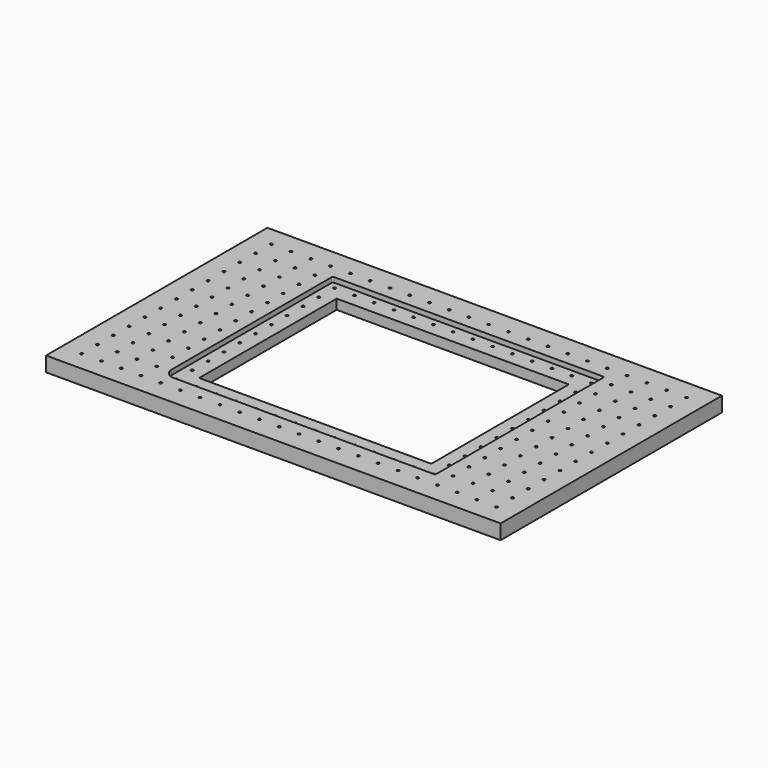
from build123d import *

# Parameters (mm, degrees)
F0_W     = 584.2
F0_H     = 355.6
F0_R     = 1.5875
F1_DEPTH = 19.05
F3_DEPTH = 6.35
F4_W     = 298.45
F4_H     = 220.98
F5_DEPTH = 25.4


with BuildPart() as f1:
    # F0 (on Top) → F1 (new body)
    with BuildSketch(Plane.XY):
        Rectangle(F0_W, F0_H)
        with Locations((-266.7, -152.4)):
            Circle(F0_R, mode=Mode.SUBTRACT)
        with Locations((-241.3, -152.4)):
            Circle(F0_R, mode=Mode.SUBTRACT)
        with Locations((-215.9, -152.4)):
            Circle(F0_R, mode=Mode.SUBTRACT)
        with Locations((-190.5, -152.4)):
            Circle(F0_R, mode=Mode.SUBTRACT)
        with Locations((-165.1, -152.4)):
            Circle(F0_R, mode=Mode.SUBTRACT)
        with Locations((-266.7, -127)):
            Circle(F0_R, mode=Mode.SUBTRACT)
        with Locations((-241.3, -127)):
            Circle(F0_R, mode=Mode.SUBTRACT)
        with Locations((-266.7, -101.6)):
            Circle(F0_R, mode=Mode.SUBTRACT)
        with Locations((-241.3, -101.6)):
            Circle(F0_R, mode=Mode.SUBTRACT)
        with Locations((-215.9, -127)):
            Circle(F0_R, mode=Mode.SUBTRACT)
        with Locations((-190.5, -127)):
            Circle(F0_R, mode=Mode.SUBTRACT)
        with Locations((-165.1, -127)):
            Circle(F0_R, mode=Mode.SUBTRACT)
        with Locations((-215.9, -101.6)):
            Circle(F0_R, mode=Mode.SUBTRACT)
        with Locations((-190.5, -101.6)):
            Circle(F0_R, mode=Mode.SUBTRACT)
        with Locations((-165.1, -101.6)):
            Circle(F0_R, mode=Mode.SUBTRACT)
        with Locations((-139.7, -152.4)):
            Circle(F0_R, mode=Mode.SUBTRACT)
        with Locations((-114.3, -152.4)):
            Circle(F0_R, mode=Mode.SUBTRACT)
        with Locations((-88.9, -152.4)):
            Circle(F0_R, mode=Mode.SUBTRACT)
        with Locations((-63.5, -152.4)):
            Circle(F0_R, mode=Mode.SUBTRACT)
        with Locations((-38.1, -152.4)):
            Circle(F0_R, mode=Mode.SUBTRACT)
        with Locations((-12.7, -152.4)):
            Circle(F0_R, mode=Mode.SUBTRACT)
        with Locations((-139.7, -127)):
            Circle(F0_R, mode=Mode.SUBTRACT)
        with Locations((-114.3, -127)):
            Circle(F0_R, mode=Mode.SUBTRACT)
        with Locations((-88.9, -127)):
            Circle(F0_R, mode=Mode.SUBTRACT)
        with Locations((-139.7, -101.6)):
            Circle(F0_R, mode=Mode.SUBTRACT)
        with Locations((-114.3, -101.6)):
            Circle(F0_R, mode=Mode.SUBTRACT)
        with Locations((-88.9, -101.6)):
            Circle(F0_R, mode=Mode.SUBTRACT)
        with Locations((-63.5, -127)):
            Circle(F0_R, mode=Mode.SUBTRACT)
        with Locations((-38.1, -127)):
            Circle(F0_R, mode=Mode.SUBTRACT)
        with Locations((-12.7, -127)):
            Circle(F0_R, mode=Mode.SUBTRACT)
        with Locations((-63.5, -101.6)):
            Circle(F0_R, mode=Mode.SUBTRACT)
        with Locations((-38.1, -101.6)):
            Circle(F0_R, mode=Mode.SUBTRACT)
        with Locations((-12.7, -101.6)):
            Circle(F0_R, mode=Mode.SUBTRACT)
        with Locations((-266.7, -76.2)):
            Circle(F0_R, mode=Mode.SUBTRACT)
        with Locations((-241.3, -76.2)):
            Circle(F0_R, mode=Mode.SUBTRACT)
        with Locations((-266.7, -50.8)):
            Circle(F0_R, mode=Mode.SUBTRACT)
        with Locations((-241.3, -50.8)):
            Circle(F0_R, mode=Mode.SUBTRACT)
        with Locations((-215.9, -76.2)):
            Circle(F0_R, mode=Mode.SUBTRACT)
        with Locations((-190.5, -76.2)):
            Circle(F0_R, mode=Mode.SUBTRACT)
        with Locations((-165.1, -76.2)):
            Circle(F0_R, mode=Mode.SUBTRACT)
        with Locations((-215.9, -50.8)):
            Circle(F0_R, mode=Mode.SUBTRACT)
        with Locations((-190.5, -50.8)):
            Circle(F0_R, mode=Mode.SUBTRACT)
        with Locations((-165.1, -50.8)):
            Circle(F0_R, mode=Mode.SUBTRACT)
        with Locations((-266.7, -25.4)):
            Circle(F0_R, mode=Mode.SUBTRACT)
        with Locations((-241.3, -25.4)):
            Circle(F0_R, mode=Mode.SUBTRACT)
        with Locations((-215.9, -25.4)):
            Circle(F0_R, mode=Mode.SUBTRACT)
        with Locations((-190.5, -25.4)):
            Circle(F0_R, mode=Mode.SUBTRACT)
        with Locations((-165.1, -25.4)):
            Circle(F0_R, mode=Mode.SUBTRACT)
        with Locations((-139.7, -76.2)):
            Circle(F0_R, mode=Mode.SUBTRACT)
        with Locations((-114.3, -76.2)):
            Circle(F0_R, mode=Mode.SUBTRACT)
        with Locations((-88.9, -76.2)):
            Circle(F0_R, mode=Mode.SUBTRACT)
        with Locations((-139.7, -50.8)):
            Circle(F0_R, mode=Mode.SUBTRACT)
        with Locations((-114.3, -50.8)):
            Circle(F0_R, mode=Mode.SUBTRACT)
        with Locations((-88.9, -50.8)):
            Circle(F0_R, mode=Mode.SUBTRACT)
        with Locations((-63.5, -76.2)):
            Circle(F0_R, mode=Mode.SUBTRACT)
        with Locations((-38.1, -76.2)):
            Circle(F0_R, mode=Mode.SUBTRACT)
        with Locations((-12.7, -76.2)):
            Circle(F0_R, mode=Mode.SUBTRACT)
        with Locations((-63.5, -50.8)):
            Circle(F0_R, mode=Mode.SUBTRACT)
        with Locations((-38.1, -50.8)):
            Circle(F0_R, mode=Mode.SUBTRACT)
        with Locations((-12.7, -50.8)):
            Circle(F0_R, mode=Mode.SUBTRACT)
        with Locations((-139.7, -25.4)):
            Circle(F0_R, mode=Mode.SUBTRACT)
        with Locations((-114.3, -25.4)):
            Circle(F0_R, mode=Mode.SUBTRACT)
        with Locations((-88.9, -25.4)):
            Circle(F0_R, mode=Mode.SUBTRACT)
        with Locations((-63.5, -25.4)):
            Circle(F0_R, mode=Mode.SUBTRACT)
        with Locations((-38.1, -25.4)):
            Circle(F0_R, mode=Mode.SUBTRACT)
        with Locations((-12.7, -25.4)):
            Circle(F0_R, mode=Mode.SUBTRACT)
        with Locations((12.7, -152.4)):
            Circle(F0_R, mode=Mode.SUBTRACT)
        with Locations((38.1, -152.4)):
            Circle(F0_R, mode=Mode.SUBTRACT)
        with Locations((63.5, -152.4)):
            Circle(F0_R, mode=Mode.SUBTRACT)
        with Locations((88.9, -152.4)):
            Circle(F0_R, mode=Mode.SUBTRACT)
        with Locations((114.3, -152.4)):
            Circle(F0_R, mode=Mode.SUBTRACT)
        with Locations((139.7, -152.4)):
            Circle(F0_R, mode=Mode.SUBTRACT)
        with Locations((12.7, -127)):
            Circle(F0_R, mode=Mode.SUBTRACT)
        with Locations((38.1, -127)):
            Circle(F0_R, mode=Mode.SUBTRACT)
        with Locations((63.5, -127)):
            Circle(F0_R, mode=Mode.SUBTRACT)
        with Locations((12.7, -101.6)):
            Circle(F0_R, mode=Mode.SUBTRACT)
        with Locations((38.1, -101.6)):
            Circle(F0_R, mode=Mode.SUBTRACT)
        with Locations((63.5, -101.6)):
            Circle(F0_R, mode=Mode.SUBTRACT)
        with Locations((88.9, -127)):
            Circle(F0_R, mode=Mode.SUBTRACT)
        with Locations((114.3, -127)):
            Circle(F0_R, mode=Mode.SUBTRACT)
        with Locations((139.7, -127)):
            Circle(F0_R, mode=Mode.SUBTRACT)
        with Locations((88.9, -101.6)):
            Circle(F0_R, mode=Mode.SUBTRACT)
        with Locations((114.3, -101.6)):
            Circle(F0_R, mode=Mode.SUBTRACT)
        with Locations((139.7, -101.6)):
            Circle(F0_R, mode=Mode.SUBTRACT)
        with Locations((165.1, -152.4)):
            Circle(F0_R, mode=Mode.SUBTRACT)
        with Locations((190.5, -152.4)):
            Circle(F0_R, mode=Mode.SUBTRACT)
        with Locations((215.9, -152.4)):
            Circle(F0_R, mode=Mode.SUBTRACT)
        with Locations((241.3, -152.4)):
            Circle(F0_R, mode=Mode.SUBTRACT)
        with Locations((266.7, -152.4)):
            Circle(F0_R, mode=Mode.SUBTRACT)
        with Locations((165.1, -127)):
            Circle(F0_R, mode=Mode.SUBTRACT)
        with Locations((190.5, -127)):
            Circle(F0_R, mode=Mode.SUBTRACT)
        with Locations((215.9, -127)):
            Circle(F0_R, mode=Mode.SUBTRACT)
        with Locations((165.1, -101.6)):
            Circle(F0_R, mode=Mode.SUBTRACT)
        with Locations((190.5, -101.6)):
            Circle(F0_R, mode=Mode.SUBTRACT)
        with Locations((215.9, -101.6)):
            Circle(F0_R, mode=Mode.SUBTRACT)
        with Locations((241.3, -127)):
            Circle(F0_R, mode=Mode.SUBTRACT)
        with Locations((266.7, -127)):
            Circle(F0_R, mode=Mode.SUBTRACT)
        with Locations((241.3, -101.6)):
            Circle(F0_R, mode=Mode.SUBTRACT)
        with Locations((266.7, -101.6)):
            Circle(F0_R, mode=Mode.SUBTRACT)
        with Locations((12.7, -76.2)):
            Circle(F0_R, mode=Mode.SUBTRACT)
        with Locations((38.1, -76.2)):
            Circle(F0_R, mode=Mode.SUBTRACT)
        with Locations((63.5, -76.2)):
            Circle(F0_R, mode=Mode.SUBTRACT)
        with Locations((12.7, -50.8)):
            Circle(F0_R, mode=Mode.SUBTRACT)
        with Locations((38.1, -50.8)):
            Circle(F0_R, mode=Mode.SUBTRACT)
        with Locations((63.5, -50.8)):
            Circle(F0_R, mode=Mode.SUBTRACT)
        with Locations((88.9, -76.2)):
            Circle(F0_R, mode=Mode.SUBTRACT)
        with Locations((114.3, -76.2)):
            Circle(F0_R, mode=Mode.SUBTRACT)
        with Locations((139.7, -76.2)):
            Circle(F0_R, mode=Mode.SUBTRACT)
        with Locations((88.9, -50.8)):
            Circle(F0_R, mode=Mode.SUBTRACT)
        with Locations((114.3, -50.8)):
            Circle(F0_R, mode=Mode.SUBTRACT)
        with Locations((139.7, -50.8)):
            Circle(F0_R, mode=Mode.SUBTRACT)
        with Locations((12.7, -25.4)):
            Circle(F0_R, mode=Mode.SUBTRACT)
        with Locations((38.1, -25.4)):
            Circle(F0_R, mode=Mode.SUBTRACT)
        with Locations((63.5, -25.4)):
            Circle(F0_R, mode=Mode.SUBTRACT)
        with Locations((88.9, -25.4)):
            Circle(F0_R, mode=Mode.SUBTRACT)
        with Locations((114.3, -25.4)):
            Circle(F0_R, mode=Mode.SUBTRACT)
        with Locations((139.7, -25.4)):
            Circle(F0_R, mode=Mode.SUBTRACT)
        with Locations((165.1, -76.2)):
            Circle(F0_R, mode=Mode.SUBTRACT)
        with Locations((190.5, -76.2)):
            Circle(F0_R, mode=Mode.SUBTRACT)
        with Locations((215.9, -76.2)):
            Circle(F0_R, mode=Mode.SUBTRACT)
        with Locations((165.1, -50.8)):
            Circle(F0_R, mode=Mode.SUBTRACT)
        with Locations((190.5, -50.8)):
            Circle(F0_R, mode=Mode.SUBTRACT)
        with Locations((215.9, -50.8)):
            Circle(F0_R, mode=Mode.SUBTRACT)
        with Locations((241.3, -76.2)):
            Circle(F0_R, mode=Mode.SUBTRACT)
        with Locations((266.7, -76.2)):
            Circle(F0_R, mode=Mode.SUBTRACT)
        with Locations((241.3, -50.8)):
            Circle(F0_R, mode=Mode.SUBTRACT)
        with Locations((266.7, -50.8)):
            Circle(F0_R, mode=Mode.SUBTRACT)
        with Locations((165.1, -25.4)):
            Circle(F0_R, mode=Mode.SUBTRACT)
        with Locations((190.5, -25.4)):
            Circle(F0_R, mode=Mode.SUBTRACT)
        with Locations((215.9, -25.4)):
            Circle(F0_R, mode=Mode.SUBTRACT)
        with Locations((241.3, -25.4)):
            Circle(F0_R, mode=Mode.SUBTRACT)
        with Locations((266.7, -25.4)):
            Circle(F0_R, mode=Mode.SUBTRACT)
        with Locations((-266.7, 0)):
            Circle(F0_R, mode=Mode.SUBTRACT)
        with Locations((-241.3, 0)):
            Circle(F0_R, mode=Mode.SUBTRACT)
        with Locations((-266.7, 25.4)):
            Circle(F0_R, mode=Mode.SUBTRACT)
        with Locations((-241.3, 25.4)):
            Circle(F0_R, mode=Mode.SUBTRACT)
        with Locations((-215.9, 0)):
            Circle(F0_R, mode=Mode.SUBTRACT)
        with Locations((-190.5, 0)):
            Circle(F0_R, mode=Mode.SUBTRACT)
        with Locations((-165.1, 0)):
            Circle(F0_R, mode=Mode.SUBTRACT)
        with Locations((-215.9, 25.4)):
            Circle(F0_R, mode=Mode.SUBTRACT)
        with Locations((-190.5, 25.4)):
            Circle(F0_R, mode=Mode.SUBTRACT)
        with Locations((-165.1, 25.4)):
            Circle(F0_R, mode=Mode.SUBTRACT)
        with Locations((-266.7, 50.8)):
            Circle(F0_R, mode=Mode.SUBTRACT)
        with Locations((-241.3, 50.8)):
            Circle(F0_R, mode=Mode.SUBTRACT)
        with Locations((-266.7, 76.2)):
            Circle(F0_R, mode=Mode.SUBTRACT)
        with Locations((-241.3, 76.2)):
            Circle(F0_R, mode=Mode.SUBTRACT)
        with Locations((-215.9, 50.8)):
            Circle(F0_R, mode=Mode.SUBTRACT)
        with Locations((-190.5, 50.8)):
            Circle(F0_R, mode=Mode.SUBTRACT)
        with Locations((-165.1, 50.8)):
            Circle(F0_R, mode=Mode.SUBTRACT)
        with Locations((-215.9, 76.2)):
            Circle(F0_R, mode=Mode.SUBTRACT)
        with Locations((-190.5, 76.2)):
            Circle(F0_R, mode=Mode.SUBTRACT)
        with Locations((-165.1, 76.2)):
            Circle(F0_R, mode=Mode.SUBTRACT)
        with Locations((-139.7, 0)):
            Circle(F0_R, mode=Mode.SUBTRACT)
        with Locations((-114.3, 0)):
            Circle(F0_R, mode=Mode.SUBTRACT)
        with Locations((-88.9, 0)):
            Circle(F0_R, mode=Mode.SUBTRACT)
        with Locations((-139.7, 25.4)):
            Circle(F0_R, mode=Mode.SUBTRACT)
        with Locations((-114.3, 25.4)):
            Circle(F0_R, mode=Mode.SUBTRACT)
        with Locations((-88.9, 25.4)):
            Circle(F0_R, mode=Mode.SUBTRACT)
        with Locations((-63.5, 0)):
            Circle(F0_R, mode=Mode.SUBTRACT)
        with Locations((-38.1, 0)):
            Circle(F0_R, mode=Mode.SUBTRACT)
        with Locations((-12.7, 0)):
            Circle(F0_R, mode=Mode.SUBTRACT)
        with Locations((-63.5, 25.4)):
            Circle(F0_R, mode=Mode.SUBTRACT)
        with Locations((-38.1, 25.4)):
            Circle(F0_R, mode=Mode.SUBTRACT)
        with Locations((-12.7, 25.4)):
            Circle(F0_R, mode=Mode.SUBTRACT)
        with Locations((-139.7, 50.8)):
            Circle(F0_R, mode=Mode.SUBTRACT)
        with Locations((-114.3, 50.8)):
            Circle(F0_R, mode=Mode.SUBTRACT)
        with Locations((-88.9, 50.8)):
            Circle(F0_R, mode=Mode.SUBTRACT)
        with Locations((-139.7, 76.2)):
            Circle(F0_R, mode=Mode.SUBTRACT)
        with Locations((-114.3, 76.2)):
            Circle(F0_R, mode=Mode.SUBTRACT)
        with Locations((-88.9, 76.2)):
            Circle(F0_R, mode=Mode.SUBTRACT)
        with Locations((-63.5, 50.8)):
            Circle(F0_R, mode=Mode.SUBTRACT)
        with Locations((-38.1, 50.8)):
            Circle(F0_R, mode=Mode.SUBTRACT)
        with Locations((-12.7, 50.8)):
            Circle(F0_R, mode=Mode.SUBTRACT)
        with Locations((-63.5, 76.2)):
            Circle(F0_R, mode=Mode.SUBTRACT)
        with Locations((-38.1, 76.2)):
            Circle(F0_R, mode=Mode.SUBTRACT)
        with Locations((-12.7, 76.2)):
            Circle(F0_R, mode=Mode.SUBTRACT)
        with Locations((-266.7, 101.6)):
            Circle(F0_R, mode=Mode.SUBTRACT)
        with Locations((-241.3, 101.6)):
            Circle(F0_R, mode=Mode.SUBTRACT)
        with Locations((-266.7, 127)):
            Circle(F0_R, mode=Mode.SUBTRACT)
        with Locations((-241.3, 127)):
            Circle(F0_R, mode=Mode.SUBTRACT)
        with Locations((-215.9, 101.6)):
            Circle(F0_R, mode=Mode.SUBTRACT)
        with Locations((-190.5, 101.6)):
            Circle(F0_R, mode=Mode.SUBTRACT)
        with Locations((-165.1, 101.6)):
            Circle(F0_R, mode=Mode.SUBTRACT)
        with Locations((-215.9, 127)):
            Circle(F0_R, mode=Mode.SUBTRACT)
        with Locations((-190.5, 127)):
            Circle(F0_R, mode=Mode.SUBTRACT)
        with Locations((-165.1, 127)):
            Circle(F0_R, mode=Mode.SUBTRACT)
        with Locations((-266.7, 152.4)):
            Circle(F0_R, mode=Mode.SUBTRACT)
        with Locations((-241.3, 152.4)):
            Circle(F0_R, mode=Mode.SUBTRACT)
        with Locations((-215.9, 152.4)):
            Circle(F0_R, mode=Mode.SUBTRACT)
        with Locations((-190.5, 152.4)):
            Circle(F0_R, mode=Mode.SUBTRACT)
        with Locations((-165.1, 152.4)):
            Circle(F0_R, mode=Mode.SUBTRACT)
        with Locations((-139.7, 101.6)):
            Circle(F0_R, mode=Mode.SUBTRACT)
        with Locations((-114.3, 101.6)):
            Circle(F0_R, mode=Mode.SUBTRACT)
        with Locations((-88.9, 101.6)):
            Circle(F0_R, mode=Mode.SUBTRACT)
        with Locations((-139.7, 127)):
            Circle(F0_R, mode=Mode.SUBTRACT)
        with Locations((-114.3, 127)):
            Circle(F0_R, mode=Mode.SUBTRACT)
        with Locations((-88.9, 127)):
            Circle(F0_R, mode=Mode.SUBTRACT)
        with Locations((-63.5, 101.6)):
            Circle(F0_R, mode=Mode.SUBTRACT)
        with Locations((-38.1, 101.6)):
            Circle(F0_R, mode=Mode.SUBTRACT)
        with Locations((-12.7, 101.6)):
            Circle(F0_R, mode=Mode.SUBTRACT)
        with Locations((-63.5, 127)):
            Circle(F0_R, mode=Mode.SUBTRACT)
        with Locations((-38.1, 127)):
            Circle(F0_R, mode=Mode.SUBTRACT)
        with Locations((-12.7, 127)):
            Circle(F0_R, mode=Mode.SUBTRACT)
        with Locations((-139.7, 152.4)):
            Circle(F0_R, mode=Mode.SUBTRACT)
        with Locations((-114.3, 152.4)):
            Circle(F0_R, mode=Mode.SUBTRACT)
        with Locations((-88.9, 152.4)):
            Circle(F0_R, mode=Mode.SUBTRACT)
        with Locations((-63.5, 152.4)):
            Circle(F0_R, mode=Mode.SUBTRACT)
        with Locations((-38.1, 152.4)):
            Circle(F0_R, mode=Mode.SUBTRACT)
        with Locations((-12.7, 152.4)):
            Circle(F0_R, mode=Mode.SUBTRACT)
        with Locations((12.7, 0)):
            Circle(F0_R, mode=Mode.SUBTRACT)
        with Locations((38.1, 0)):
            Circle(F0_R, mode=Mode.SUBTRACT)
        with Locations((63.5, 0)):
            Circle(F0_R, mode=Mode.SUBTRACT)
        with Locations((12.7, 25.4)):
            Circle(F0_R, mode=Mode.SUBTRACT)
        with Locations((38.1, 25.4)):
            Circle(F0_R, mode=Mode.SUBTRACT)
        with Locations((63.5, 25.4)):
            Circle(F0_R, mode=Mode.SUBTRACT)
        with Locations((88.9, 0)):
            Circle(F0_R, mode=Mode.SUBTRACT)
        with Locations((114.3, 0)):
            Circle(F0_R, mode=Mode.SUBTRACT)
        with Locations((139.7, 0)):
            Circle(F0_R, mode=Mode.SUBTRACT)
        with Locations((88.9, 25.4)):
            Circle(F0_R, mode=Mode.SUBTRACT)
        with Locations((114.3, 25.4)):
            Circle(F0_R, mode=Mode.SUBTRACT)
        with Locations((139.7, 25.4)):
            Circle(F0_R, mode=Mode.SUBTRACT)
        with Locations((12.7, 50.8)):
            Circle(F0_R, mode=Mode.SUBTRACT)
        with Locations((38.1, 50.8)):
            Circle(F0_R, mode=Mode.SUBTRACT)
        with Locations((63.5, 50.8)):
            Circle(F0_R, mode=Mode.SUBTRACT)
        with Locations((12.7, 76.2)):
            Circle(F0_R, mode=Mode.SUBTRACT)
        with Locations((38.1, 76.2)):
            Circle(F0_R, mode=Mode.SUBTRACT)
        with Locations((63.5, 76.2)):
            Circle(F0_R, mode=Mode.SUBTRACT)
        with Locations((88.9, 50.8)):
            Circle(F0_R, mode=Mode.SUBTRACT)
        with Locations((114.3, 50.8)):
            Circle(F0_R, mode=Mode.SUBTRACT)
        with Locations((139.7, 50.8)):
            Circle(F0_R, mode=Mode.SUBTRACT)
        with Locations((88.9, 76.2)):
            Circle(F0_R, mode=Mode.SUBTRACT)
        with Locations((114.3, 76.2)):
            Circle(F0_R, mode=Mode.SUBTRACT)
        with Locations((139.7, 76.2)):
            Circle(F0_R, mode=Mode.SUBTRACT)
        with Locations((165.1, 0)):
            Circle(F0_R, mode=Mode.SUBTRACT)
        with Locations((190.5, 0)):
            Circle(F0_R, mode=Mode.SUBTRACT)
        with Locations((215.9, 0)):
            Circle(F0_R, mode=Mode.SUBTRACT)
        with Locations((165.1, 25.4)):
            Circle(F0_R, mode=Mode.SUBTRACT)
        with Locations((190.5, 25.4)):
            Circle(F0_R, mode=Mode.SUBTRACT)
        with Locations((215.9, 25.4)):
            Circle(F0_R, mode=Mode.SUBTRACT)
        with Locations((241.3, 0)):
            Circle(F0_R, mode=Mode.SUBTRACT)
        with Locations((266.7, 0)):
            Circle(F0_R, mode=Mode.SUBTRACT)
        with Locations((241.3, 25.4)):
            Circle(F0_R, mode=Mode.SUBTRACT)
        with Locations((266.7, 25.4)):
            Circle(F0_R, mode=Mode.SUBTRACT)
        with Locations((165.1, 50.8)):
            Circle(F0_R, mode=Mode.SUBTRACT)
        with Locations((190.5, 50.8)):
            Circle(F0_R, mode=Mode.SUBTRACT)
        with Locations((215.9, 50.8)):
            Circle(F0_R, mode=Mode.SUBTRACT)
        with Locations((165.1, 76.2)):
            Circle(F0_R, mode=Mode.SUBTRACT)
        with Locations((190.5, 76.2)):
            Circle(F0_R, mode=Mode.SUBTRACT)
        with Locations((215.9, 76.2)):
            Circle(F0_R, mode=Mode.SUBTRACT)
        with Locations((241.3, 50.8)):
            Circle(F0_R, mode=Mode.SUBTRACT)
        with Locations((266.7, 50.8)):
            Circle(F0_R, mode=Mode.SUBTRACT)
        with Locations((241.3, 76.2)):
            Circle(F0_R, mode=Mode.SUBTRACT)
        with Locations((266.7, 76.2)):
            Circle(F0_R, mode=Mode.SUBTRACT)
        with Locations((12.7, 101.6)):
            Circle(F0_R, mode=Mode.SUBTRACT)
        with Locations((38.1, 101.6)):
            Circle(F0_R, mode=Mode.SUBTRACT)
        with Locations((63.5, 101.6)):
            Circle(F0_R, mode=Mode.SUBTRACT)
        with Locations((12.7, 127)):
            Circle(F0_R, mode=Mode.SUBTRACT)
        with Locations((38.1, 127)):
            Circle(F0_R, mode=Mode.SUBTRACT)
        with Locations((63.5, 127)):
            Circle(F0_R, mode=Mode.SUBTRACT)
        with Locations((88.9, 101.6)):
            Circle(F0_R, mode=Mode.SUBTRACT)
        with Locations((114.3, 101.6)):
            Circle(F0_R, mode=Mode.SUBTRACT)
        with Locations((139.7, 101.6)):
            Circle(F0_R, mode=Mode.SUBTRACT)
        with Locations((88.9, 127)):
            Circle(F0_R, mode=Mode.SUBTRACT)
        with Locations((114.3, 127)):
            Circle(F0_R, mode=Mode.SUBTRACT)
        with Locations((139.7, 127)):
            Circle(F0_R, mode=Mode.SUBTRACT)
        with Locations((12.7, 152.4)):
            Circle(F0_R, mode=Mode.SUBTRACT)
        with Locations((38.1, 152.4)):
            Circle(F0_R, mode=Mode.SUBTRACT)
        with Locations((63.5, 152.4)):
            Circle(F0_R, mode=Mode.SUBTRACT)
        with Locations((88.9, 152.4)):
            Circle(F0_R, mode=Mode.SUBTRACT)
        with Locations((114.3, 152.4)):
            Circle(F0_R, mode=Mode.SUBTRACT)
        with Locations((139.7, 152.4)):
            Circle(F0_R, mode=Mode.SUBTRACT)
        with Locations((165.1, 101.6)):
            Circle(F0_R, mode=Mode.SUBTRACT)
        with Locations((190.5, 101.6)):
            Circle(F0_R, mode=Mode.SUBTRACT)
        with Locations((215.9, 101.6)):
            Circle(F0_R, mode=Mode.SUBTRACT)
        with Locations((165.1, 127)):
            Circle(F0_R, mode=Mode.SUBTRACT)
        with Locations((190.5, 127)):
            Circle(F0_R, mode=Mode.SUBTRACT)
        with Locations((215.9, 127)):
            Circle(F0_R, mode=Mode.SUBTRACT)
        with Locations((241.3, 101.6)):
            Circle(F0_R, mode=Mode.SUBTRACT)
        with Locations((266.7, 101.6)):
            Circle(F0_R, mode=Mode.SUBTRACT)
        with Locations((241.3, 127)):
            Circle(F0_R, mode=Mode.SUBTRACT)
        with Locations((266.7, 127)):
            Circle(F0_R, mode=Mode.SUBTRACT)
        with Locations((165.1, 152.4)):
            Circle(F0_R, mode=Mode.SUBTRACT)
        with Locations((190.5, 152.4)):
            Circle(F0_R, mode=Mode.SUBTRACT)
        with Locations((215.9, 152.4)):
            Circle(F0_R, mode=Mode.SUBTRACT)
        with Locations((241.3, 152.4)):
            Circle(F0_R, mode=Mode.SUBTRACT)
        with Locations((266.7, 152.4)):
            Circle(F0_R, mode=Mode.SUBTRACT)
    extrude(amount=F1_DEPTH)

    # F2 (on face) → F3 (cut)
    with BuildSketch(Plane.XY.offset(19.05)):
        with BuildLine():
            Line((-161.544, -135.89), (172.9994, -135.89))
            ThreePointArc((172.9994, -135.89), (174.148873, -135.413873), (174.625, -134.2644))
            Line((174.625, -134.2644), (174.625, 134.2644))
            ThreePointArc((174.625, 134.2644), (174.148873, 135.413873), (172.9994, 135.89))
            Line((172.9994, 135.89), (-172.9994, 135.89))
            ThreePointArc((-172.9994, 135.89), (-174.148873, 135.413873), (-174.625, 134.2644))
            Line((-174.625, 134.2644), (-174.625, -122.809))
            ThreePointArc((-174.625, -122.809), (-170.793664, -132.058664), (-161.544, -135.89))
        make_face()
    extrude(amount=-F3_DEPTH, mode=Mode.SUBTRACT)

    # F4 (on face) → F5 (cut)
    with BuildSketch(Plane.XY.offset(12.7)):
        Rectangle(F4_W, F4_H)
    extrude(amount=-F5_DEPTH, mode=Mode.SUBTRACT)


solid = f1.part
